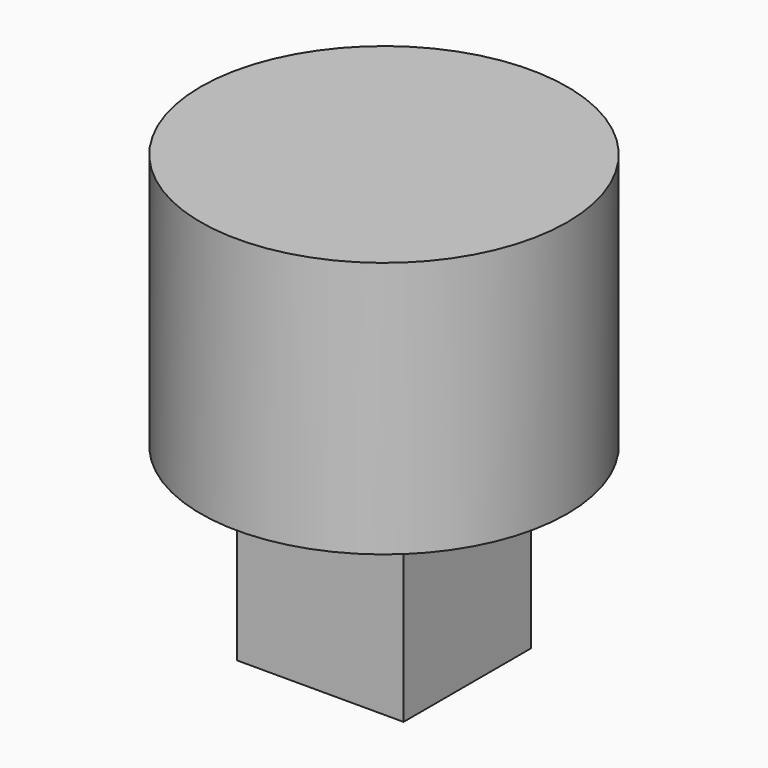
from build123d import *

# Parameters (mm, degrees)
F0_R     = 25
F1_DEPTH = 17.5
F2_W     = 22.7331742644
F2_H     = 21.7518806458
F3_DEPTH = 25


with BuildPart() as f1:
    # F0 (on Top) → F1 (new body, symmetric)
    with BuildSketch(Plane.XY):
        Circle(F0_R)
    extrude(amount=F1_DEPTH, both=True)

    # F2 (on face) → F3 (join)
    with BuildSketch(Plane(origin=(0, 0, -17.5), x_dir=(1, 0, 0), z_dir=(0, 0, -1))):
        Rectangle(F2_W, F2_H)
    extrude(amount=F3_DEPTH)


solid = f1.part
